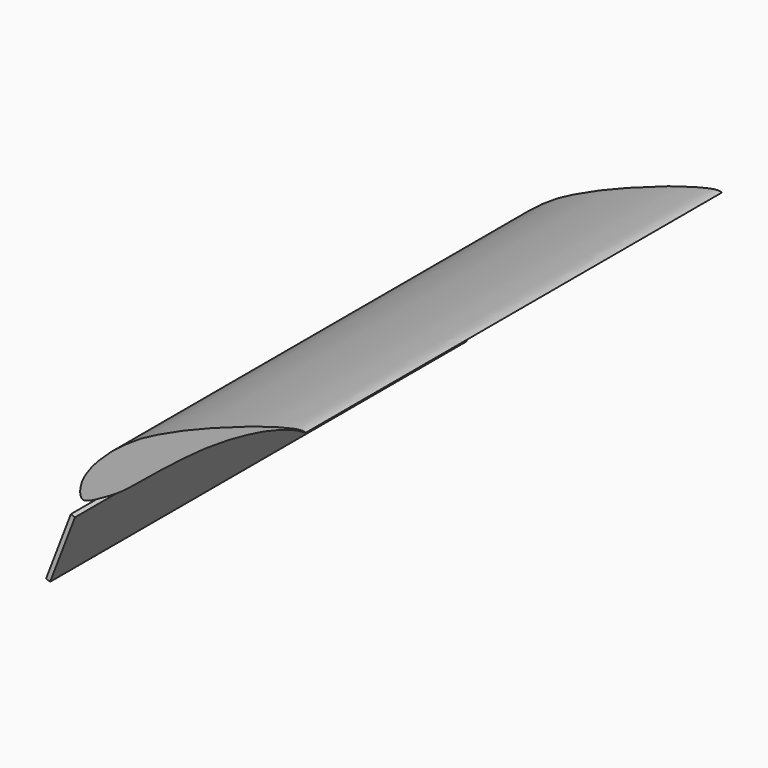
from build123d import *

# Parameters (mm, degrees)
F2_DEPTH = 1524


with BuildPart() as f2:
    # F1 (on Front) → F2 (new body)
    with BuildSketch(Plane.XZ):
        Polygon((60.7129565815, 194.3333911173), (-11.8623396938, 4.5359560172), (0, 0), (72.5752962752, 189.7974351001), align=None)
    extrude(amount=-F2_DEPTH)


with BuildPart() as f2b:
    # F0 (on Front) → F2, piece 2 (new body)
    with BuildSketch(Plane.XZ):
        with BuildLine():
            add(Edge.make_bspline(
                [(748.6304900242, 627.8925554362), (748.612786657, 627.079536365), (728.317855468, 627.0129846348), (705.9879779043, 621.5668168104), (676.9820200254, 612.1931976817), (645.4835561731, 600.3544693304), (612.078717601, 585.0287351595), (583.6485878342, 569.8601879797), (545.9736311214, 549.8973121279), (503.417672083, 524.0014572282), (454.5341002583, 492.393218638), (422.7766699748, 469.0704444692), (399.3359261357, 451.8057914295), (368.5612694814, 428.2403230345), (353.9683372452, 415.9630713114), (336.0508196786, 402.8428971146), (315.0015007306, 385.8148654025), (305.6172860042, 378.0857557917), (289.1332778715, 364.1506053106), (267.894972916, 347.7780397845), (251.3548980035, 333.4458248597), (236.2023123337, 321.5447919865), (216.0238109835, 305.8656697645), (198.9154697647, 293.7322375738), (175.6741464525, 279.3563734477), (164.1843818417, 272.2372034279), (130.9225676191, 253.6366598088), (119.3206184342, 248.5952587659), (110.1043387393, 244.7597138195), (103.1453752123, 243.2020652408), (96.6622314339, 241.8997375928), (92.3988805989, 245.5192792446), (90.5475198095, 247.4801298418), (88.3533334459, 253.6026431089), (87.5354866029, 265.3651169362), (91.0633793268, 282.2235594857), (97.5199451373, 300.9333150453), (117.5761088879, 330.7216220501), (136.5478866346, 353.4005275289), (170.4105136756, 386.8222111463), (205.398842913, 415.5081941057), (251.6354959273, 447.5902736989), (289.7667834332, 469.6027942028), (348.901784228, 498.5572391235), (407.5344628294, 524.318091676), (437.8078183438, 536.6675147105), (487.4989599997, 555.7545296495), (521.9881055155, 568.733376127), (545.1283819835, 576.4142163092), (565.0302663654, 584.2513232454), (584.5683944602, 590.8043685618), (597.6797754406, 595.0316999356), (609.4375345308, 598.5402980549), (623.4270949645, 603.2416781652), (635.7130275017, 606.6288750561), (652.979899479, 611.7295347259), (663.6530796116, 614.818211301), (671.1389480508, 616.7208437639), (685.0346141442, 620.2999102484), (696.5406078856, 623.4688029268), (711.1249658236, 626.3616763669), (724.0712845174, 629.1361912304), (732.3624927855, 629.4914366677), (740.3315060466, 630.2960184281), (748.642214912, 628.4310155618), (748.6304900242, 627.8925554362)],
                knots=[0, 0, 0, 0, 0.013698667, 0.0308698175, 0.0490458277, 0.0685549977, 0.0886761422, 0.1076134652, 0.1291522713, 0.1530164391, 0.1786043008, 0.1993450279, 0.2175431028, 0.2380937448, 0.2527022168, 0.2684743408, 0.2856924276, 0.2973833088, 0.3126189478, 0.3301548859, 0.3456855261, 0.3603462545, 0.3770086366, 0.3927567052, 0.4096533881, 0.4226894765, 0.4429873765, 0.4552521561, 0.4653898431, 0.4743777625, 0.4827167093, 0.490186953, 0.4955974853, 0.5037082718, 0.5151635822, 0.5288463671, 0.5437913664, 0.5634769619, 0.5819693657, 0.6046173311, 0.6275022862, 0.6521935781, 0.6744492142, 0.7017139547, 0.7282512979, 0.7475562312, 0.7717062358, 0.7922084045, 0.8084226953, 0.8238632737, 0.8389863794, 0.8512901266, 0.8629379642, 0.8756012711, 0.8877338514, 0.9019016843, 0.9129243639, 0.9221536087, 0.9346218143, 0.9463679046, 0.9592579306, 0.9714041387, 0.9808186244, 0.9909274134, 1, 1, 1, 1], degree=3))
        make_face()
    extrude(amount=-F2_DEPTH)


solid = Compound([f2.part, f2b.part])
